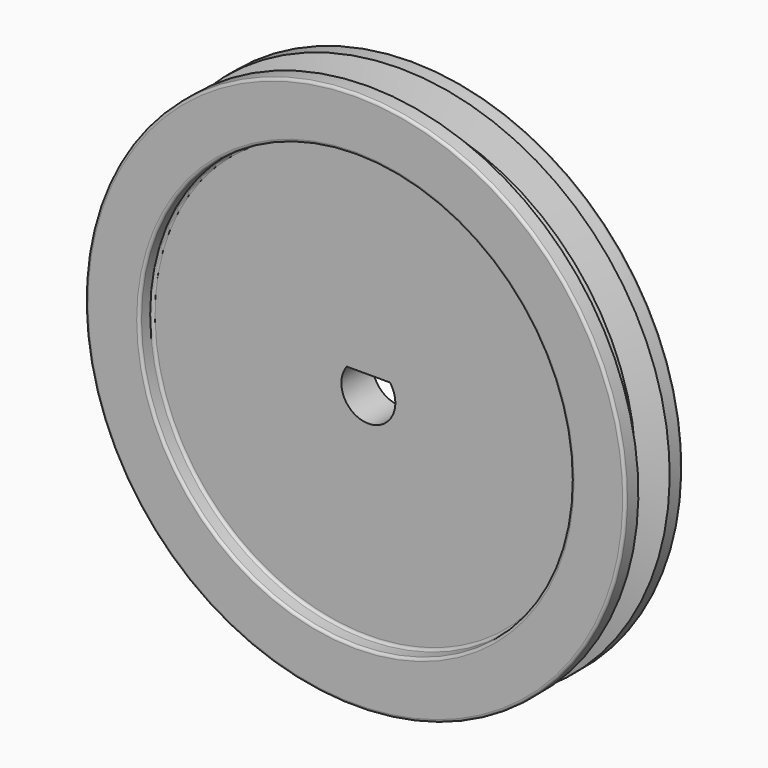
from build123d import *

# Parameters (mm, degrees)
F5_DEPTH = 42.22748


with BuildPart() as f2:
    # F0 (on Right) → F2 (revolve)
    with BuildSketch(Plane.YZ):
        with BuildLine():
            Line((2.54, 57.15), (0, 57.15))
            Line((0, 57.15), (-2.54, 57.15))
            Line((-2.54, 57.15), (-4.60324, 63.5))
            Line((-4.60324, 63.5), (-7.77824, 63.5))
            ThreePointArc((-7.77824, 63.5), (-8.227253, 63.314013), (-8.41324, 62.865))
            Line((-8.41324, 62.865), (-8.41324, 51.435))
            ThreePointArc((-8.41324, 51.435), (-8.227253, 50.985987), (-7.77824, 50.8))
            Line((-7.77824, 50.8), (-5.23824, 50.8))
            ThreePointArc((-5.23824, 50.8), (-4.789227, 50.614013), (-4.60324, 50.165))
            Line((-4.60324, 50.165), (-4.60324, 6.35))
            Line((-4.60324, 6.35), (-4.60324, 0))
            Line((-4.60324, 0), (4.60324, 0))
            Line((4.60324, 0), (4.60324, 6.35))
            Line((4.60324, 6.35), (4.60324, 50.165))
            ThreePointArc((4.60324, 50.165), (4.789227, 50.614013), (5.23824, 50.8))
            Line((5.23824, 50.8), (7.77824, 50.8))
            ThreePointArc((7.77824, 50.8), (8.227253, 50.985987), (8.41324, 51.435))
            Line((8.41324, 51.435), (8.41324, 62.865))
            ThreePointArc((8.41324, 62.865), (8.227253, 63.314013), (7.77824, 63.5))
            Line((7.77824, 63.5), (4.60324, 63.5))
            Line((4.60324, 63.5), (2.54, 57.15))
        make_face()
    revolve(axis=Axis((0, -14.110391, 0), (0, -1, 0)))

    # F4 (on offset) → F5 (cut, through all)
    with BuildSketch(Plane.XZ.offset(33.81324)):
        with BuildLine():
            Line((5.08, 3.81), (-5.08, 3.81))
            ThreePointArc((-5.08, 3.81), (0, -6.35), (5.08, 3.81))
        make_face()
    extrude(amount=-F5_DEPTH, mode=Mode.SUBTRACT)


solid = f2.part
